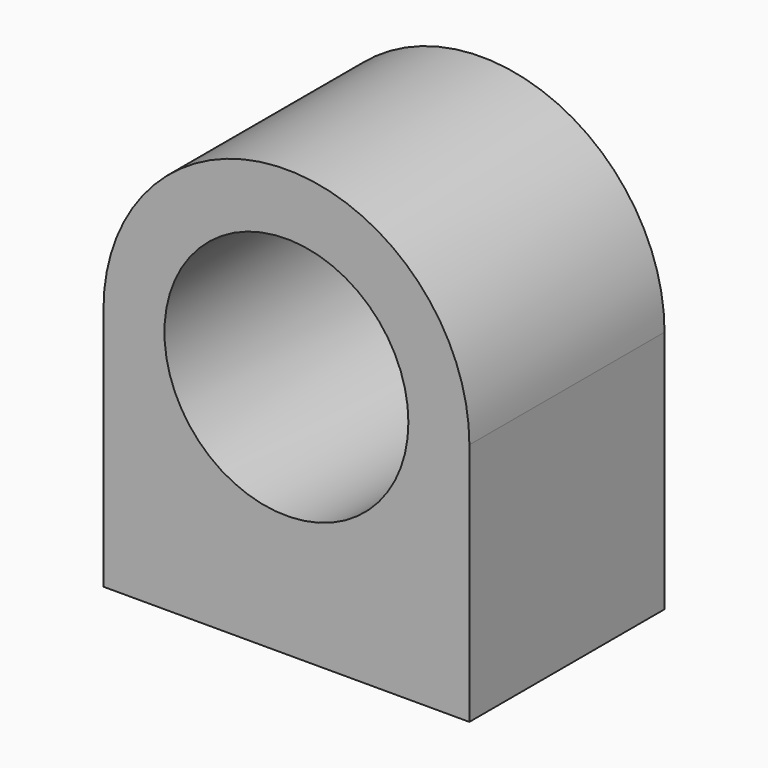
from build123d import *

# Parameters (mm, degrees)
F0_R     = 5
F1_DEPTH = 10
F2_R     = 1.25
F3_DEPTH = 5


with BuildPart() as f1:
    # F0 (on Front) → F1 (new body)
    with BuildSketch(Plane.XZ):
        with BuildLine():
            Line((0, 10), (0, 0))
            Line((0, 0), (15, 0))
            Line((15, 0), (15, 10))
            ThreePointArc((15, 10), (7.5, 17.5), (0, 10))
        make_face()
        with Locations((7.5, 10)):
            Circle(F0_R, mode=Mode.SUBTRACT)
    extrude(amount=F1_DEPTH)

    # F2 (on face) → F3 (cut)
    with BuildSketch(Plane(origin=(0, 0, 0), x_dir=(1, 0, 0), z_dir=(0, 0, -1))):
        with Locations((2.5, 5)):
            Circle(F2_R)
        with Locations((12.5, 5)):
            Circle(F2_R)
    extrude(amount=-F3_DEPTH, mode=Mode.SUBTRACT)


solid = f1.part
